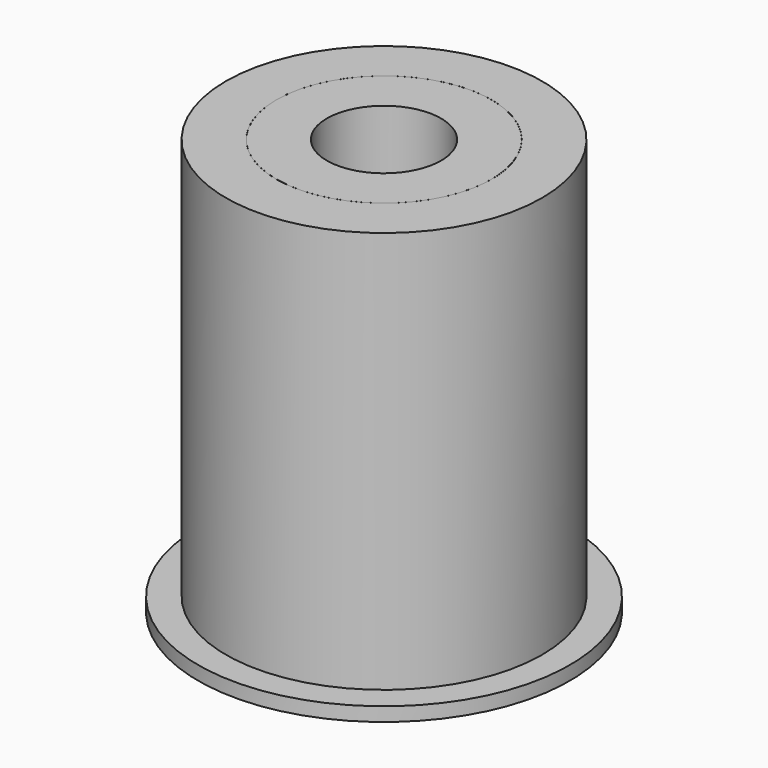
from build123d import *


with BuildPart() as f1:
    # F0 (on Front) → F1 (revolve)
    with BuildSketch(Plane.XZ):
        Polygon((-10.3, -26.118518), (-10.3, 41.281482), (-10.3, 46.281482), (-19.390928, 46.281482), (-19.390928, 41.281482), (-15.281855, 41.281482), (-15.281855, -20.945681), (-12.781855, -20.945681), (-12.681855, -20.945681), (-12.681855, -26.118518), align=None)
        Polygon((-23.5, -21.218551), (-23.5, 41.281482), (-19.400928, 41.281482), (-19.400928, 46.281482), (-28.5, 46.281482), (-28.5, 41.281482), (-28.5, -26.218518), (-33.5, -26.218518), (-33.5, -28.718518), (-23.5, -28.718518), (-23.5, -26.218518), (-19.279282, -26.218518), (-19.279282, -21.218551), align=None)
        Polygon((-12.781855, -21.218551), (-15.281855, -21.218551), (-19.269282, -21.218551), (-19.269282, -26.218518), (-15.281855, -26.218518), (-15.281855, -28.718518), (-10.3, -28.718518), (-10.3, -26.218518), (-12.550991, -26.218518), (-12.681855, -26.218518), (-12.8, -26.218518), align=None)
    revolve(axis=Axis((0, 0, 1.031581), (0, 0, -1)))


solid = f1.part
